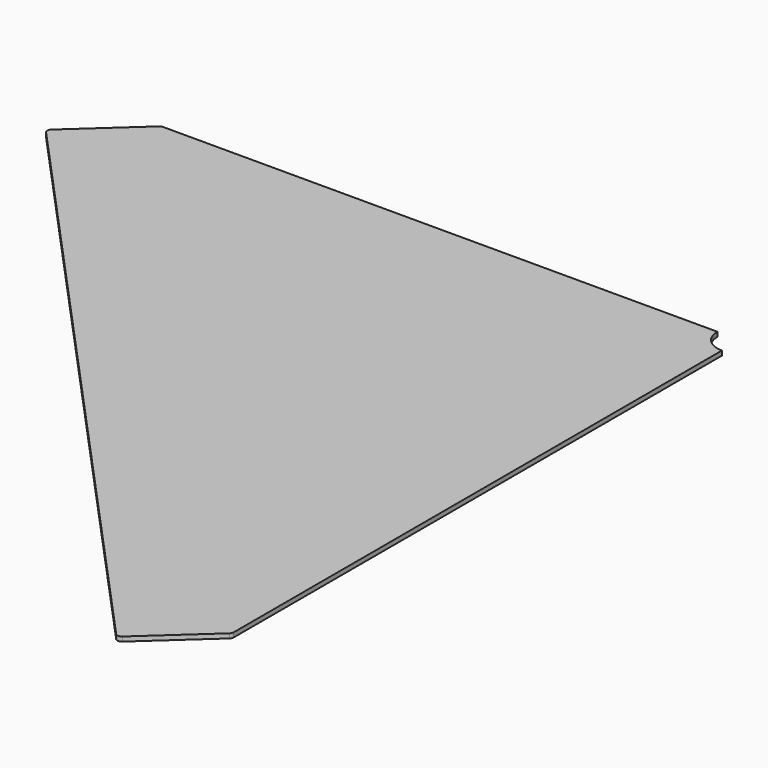
from build123d import *

# Parameters (mm, degrees)
F1_DEPTH = 5


with BuildPart() as f1:
    # F0 (on Top) → F1 (new body)
    with BuildSketch(Plane.XY):
        with BuildLine():
            ThreePointArc((0, -25), (-17.67767, -17.67767), (-25, 0))
            Line((-25, 0), (-638.063034, 0))
            ThreePointArc((-638.063034, 0), (-639.869206, -0.337625), (-641.431455, -1.304903))
            Line((-641.431455, -1.304903), (-710.206837, -64))
            ThreePointArc((-710.206837, -64), (-711.833078, -67.464102), (-710.533513, -71.063518))
            Line((-710.533513, -71.063518), (-77.270355, -765.741697))
            ThreePointArc((-77.270355, -765.741697), (-73.806253, -767.367937), (-70.206837, -766.068373))
            Line((-70.206837, -766.068373), (-1.631579, -703.555707))
            ThreePointArc((-1.631579, -703.555707), (-0.426046, -701.880251), (0, -699.860611))
            Line((0, -699.860611), (0, -25))
        make_face()
    extrude(amount=F1_DEPTH)


solid = f1.part
